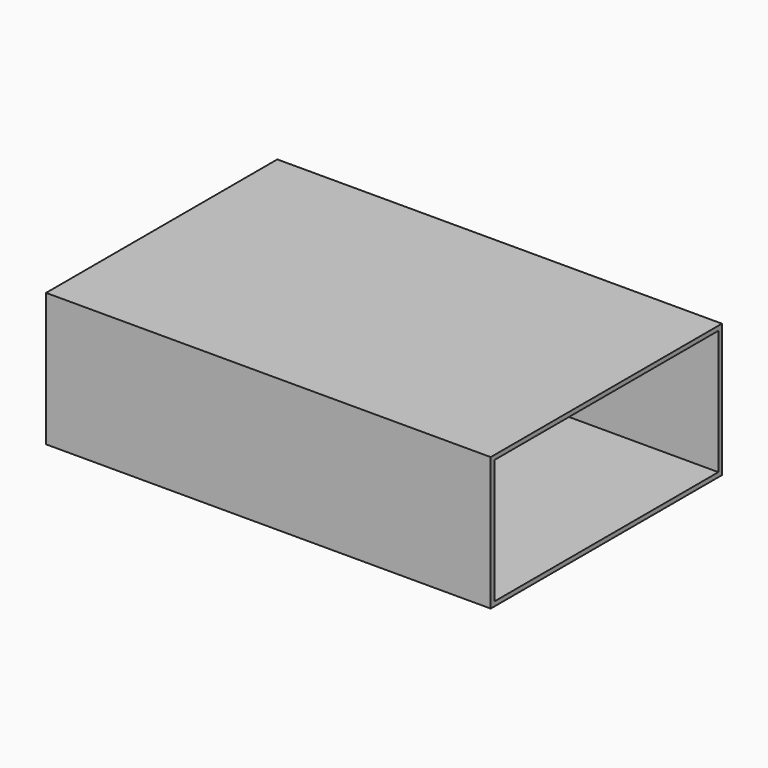
from build123d import *

# Parameters (mm, degrees)
BOX001_W     = 200
BOX001_H     = 126
BOX001_DEPTH = 56
BOX_W        = 200
BOX_H        = 130
BOX_DEPTH    = 60


with BuildPart() as cube001:
    # Box001 → Box001 (new body)
    with BuildSketch(Plane(origin=(0, 2, 2), x_dir=(1, 0, 0), z_dir=(0, 0, 1))):
        with Locations((100, 63)):
            Rectangle(BOX001_W, BOX001_H)
    extrude(amount=BOX001_DEPTH)


with BuildPart() as box:
    # Box → Box (new body)
    with BuildSketch(Plane.XY):
        with Locations((100, 65)):
            Rectangle(BOX_W, BOX_H)
    extrude(amount=BOX_DEPTH)

    # Cut: cut Cube001
    add(cube001.part, mode=Mode.SUBTRACT)


solid = box.part
